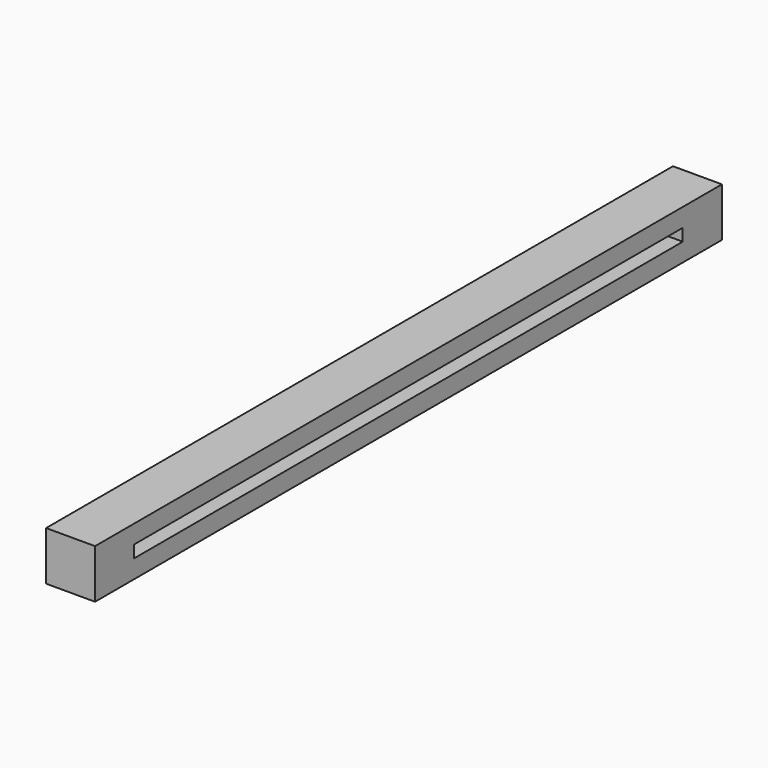
from build123d import *

# Parameters (mm, degrees)
F0_W     = 20
F0_H     = 20
F1_DEPTH = 160
F2_W     = 280
F2_H     = 5
F3_DEPTH = 25


with BuildPart() as f1:
    # F0 (on Front) → F1 (new body, symmetric)
    with BuildSketch(Plane.XZ):
        Rectangle(F0_W, F0_H)
    extrude(amount=F1_DEPTH, both=True)

    # F2 (on face) → F3 (cut)
    with BuildSketch(Plane.YZ.offset(10)):
        Rectangle(F2_W, F2_H)
    extrude(amount=-F3_DEPTH, mode=Mode.SUBTRACT)


solid = f1.part
